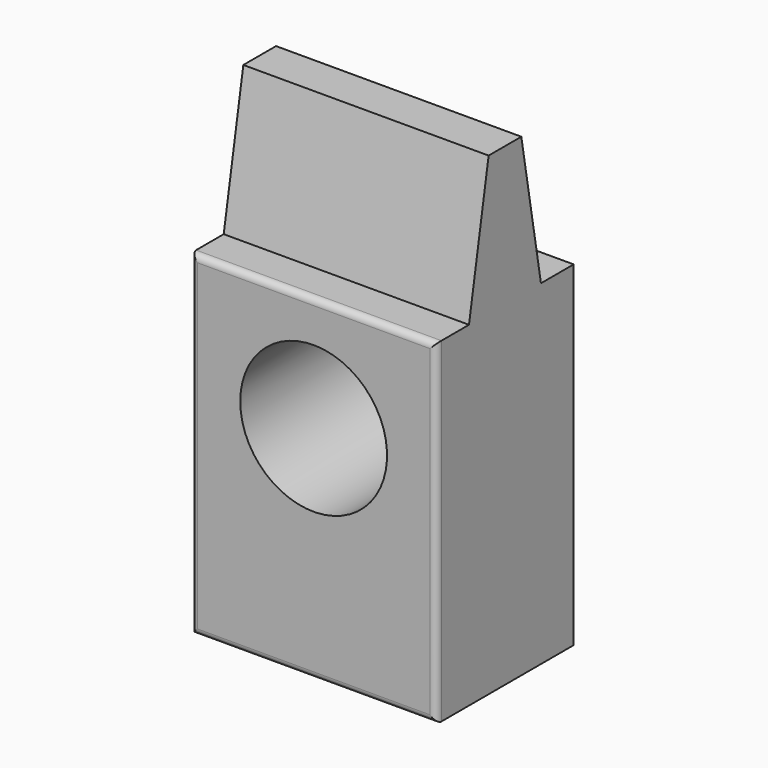
from build123d import *

# Parameters (mm, degrees)
F1_DEPTH = 190.5
F3_D     = 114
F4_DEPTH = 2
F5_R     = 5


with BuildPart() as f1:
    # F0 (on Right) → F1 (new body)
    with BuildSketch(Plane.YZ):
        Polygon((-82.545, 368.3), (-101.6, 260.35), (-66.675, 260.35), (-66.675, 368.3), align=None)
        Polygon((-66.675, 260.35), (-31.75, 260.35), (-50.805, 368.3), (-66.675, 368.3), align=None)
        Polygon((-133.35, 0), (0, 0), (0, 260.35), (-31.75, 260.35), (-66.675, 260.35), (-101.6, 260.35), (-133.35, 260.35), align=None)
    extrude(amount=F1_DEPTH)

    # F3 (through all)
    with Locations(Plane.XZ.offset(133.35)):
        with Locations((95.25, 171.45)):
            Hole(F3_D / 2)

    # F2 (on face) → F4 (join)
    with BuildSketch(Plane.XZ.offset(133.35)):
        Polygon((133.25, 76.3), (95.25, 76.3), (57.25, 76.3), (57.25, 32.3), (133.25, 32.3), align=None)
    extrude(amount=-F4_DEPTH)

    # F5
    f5_edges = [f1.edges().sort_by_distance(p)[0] for p in [
        (0, -133.35, 130.175),
        (95.25, -133.35, 260.35),
        (190.5, -133.35, 130.175),
        (95.25, -133.35, 0),
    ]]
    fillet(f5_edges, radius=F5_R)


solid = f1.part
